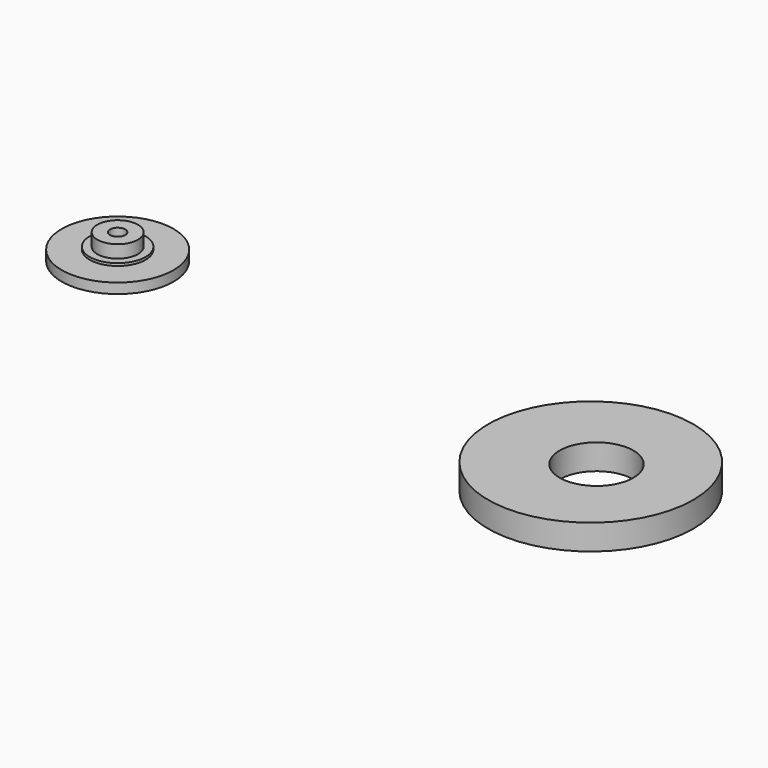
from build123d import *

# Parameters (mm, degrees)
F0_R      = 4
F0_R_2    = 1.5
F1_DEPTH  = 5
F0_R_3    = 5.5
F2_DEPTH  = 2.5
F0_R_4    = 11
F3_DEPTH  = 2
F4_R      = 1.5
F5_DEPTH  = 1
F8_DEPTH  = 0.75
F9_R      = 20.195192
F9_R_2    = 7.261283
F10_DEPTH = 5


with BuildPart() as f1:
    # F0 (on Top) → F1 (new body)
    with BuildSketch(Plane.XY):
        with Locations((-59.486263, 52.190829)):
            Circle(F0_R)
        with Locations((-59.486263, 52.190829)):
            Circle(F0_R_2, mode=Mode.SUBTRACT)
    extrude(amount=F1_DEPTH)

    # F0 (on Top) → F2 (join)
    with BuildSketch(Plane.XY):
        with Locations((-59.486263, 52.190829)):
            Circle(F0_R_3)
        with Locations((-59.486263, 52.190829)):
            Circle(F0_R, mode=Mode.SUBTRACT)
    extrude(amount=F2_DEPTH)

    # F0 (on Top) → F3 (join)
    with BuildSketch(Plane.XY):
        with Locations((-59.486263, 52.190829)):
            Circle(F0_R_4)
        with Locations((-59.486263, 52.190829)):
            Circle(F0_R_3, mode=Mode.SUBTRACT)
    extrude(amount=F3_DEPTH)


with BuildPart() as f5:
    # F4 (on face) → F5 (new body)
    with BuildSketch(Plane(origin=(0, 0, 0), x_dir=(1, 0, 0), z_dir=(0, 0, -1))):
        with Locations((-59.486263, -52.190829)):
            Circle(F4_R)
    extrude(amount=-F5_DEPTH)


with BuildPart() as f1_1:
    add(f1.part)

    # F6: union F5
    add(f5.part)

    # F7 (on face) → F8 (cut)
    with BuildSketch(Plane(origin=(0, 0, 0), x_dir=(1, 0, 0), z_dir=(0, 0, -1))):
        Polygon((-62.517378, -52.391348), (-63.178323, -53.87684), (-54.520878, -52.437834), (-55.285736, -51.613604), align=None)
        Polygon((-59.107626, -47.495039), (-59.939828, -46.598237), (-60.562, -47.996584), align=None)
        Polygon((-62.228812, -51.742789), (-56.25327, -50.570965), (-56.8148, -49.965846), (-61.627975, -50.392392), align=None)
        Polygon((-61.345156, -49.756749), (-57.796522, -48.907918), (-58.317301, -48.346713), (-60.826698, -48.5915), align=None)
    extrude(amount=-F8_DEPTH, mode=Mode.SUBTRACT)


with BuildPart() as f10:
    # F9 (on Top) → F10 (new body)
    with BuildSketch(Plane.XY):
        with Locations((45.077302, 37.880905)):
            Circle(F9_R)
        with Locations((46.212453, 37.880905)):
            Circle(F9_R_2, mode=Mode.SUBTRACT)
    extrude(amount=F10_DEPTH)


solid = Compound([f1_1.part, f10.part])
